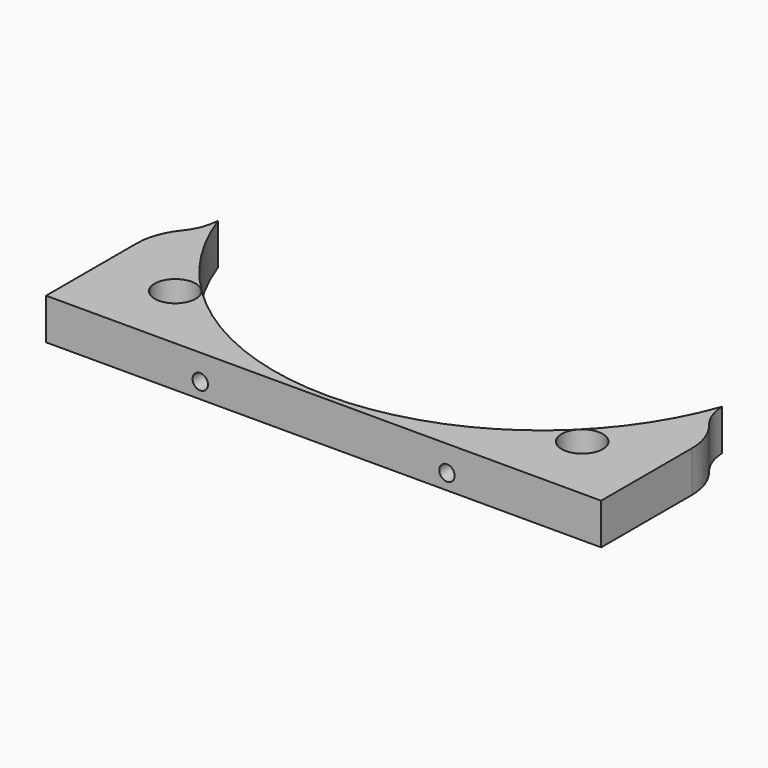
from build123d import *

# Parameters (mm, degrees)
CYLINDER883_R               = 1.5
CYLINDER883_DEPTH           = 20
CYLINDER884_R               = 1.5
CYLINDER884_DEPTH           = 20
CYLINDER881_R               = 1.5
CYLINDER881_DEPTH           = 20
CYLINDER885_R               = 1.5
CYLINDER885_DEPTH           = 20
BOX399_W                    = 6
BOX399_H                    = 2
BOX399_DEPTH                = 6
BOX401_W                    = 6
BOX401_H                    = 2
BOX401_DEPTH                = 6
BOX398_W                    = 6
BOX398_H                    = 2
BOX398_DEPTH                = 6
BOX402_W                    = 6
BOX402_H                    = 2
BOX402_DEPTH                = 6
CYLINDER882_R               = 4
CYLINDER882_DEPTH           = 20
CYLINDER882_PLACEMENT_ANGLE = 45
CYLINDER877_R               = 4
CYLINDER877_DEPTH           = 20
CYLINDER877_PLACEMENT_ANGLE = 45
CYLINDER880_R               = 10
CYLINDER880_DEPTH           = 40
CYLINDER878_R               = 10
CYLINDER878_DEPTH           = 40
CYLINDER879_R               = 52
CYLINDER879_DEPTH           = 8
BOX403_W                    = 108
BOX403_H                    = 36
BOX403_DEPTH                = 8
FILLET014_R                 = 12


with BuildPart() as obj1:
    # Cylinder883 → Cylinder883 (new body)
    with BuildSketch(Plane(origin=(24, -40, -5), x_dir=(1, 0, 0), z_dir=(0, -1, 0))):
        Circle(CYLINDER883_R)
    extrude(amount=CYLINDER883_DEPTH)


with BuildPart() as obj2:
    # Cylinder884 → Cylinder884 (new body)
    with BuildSketch(Plane(origin=(51, -40, 7), x_dir=(1, 0, 0), z_dir=(0, -1, 0))):
        Circle(CYLINDER884_R)
    extrude(amount=CYLINDER884_DEPTH)


with BuildPart() as obj3:
    # Cylinder881 → Cylinder881 (new body)
    with BuildSketch(Plane(origin=(-51, -40, 7), x_dir=(1, 0, 0), z_dir=(0, -1, 0))):
        Circle(CYLINDER881_R)
    extrude(amount=CYLINDER881_DEPTH)


with BuildPart() as compound773:
    # Cylinder885 → Cylinder885 (new body)
    with BuildSketch(Plane(origin=(-24, -40, -5), x_dir=(1, 0, 0), z_dir=(0, -1, 0))):
        Circle(CYLINDER885_R)
    extrude(amount=CYLINDER885_DEPTH)

    # Compound773: union obj1, obj2, obj3
    add(obj1.part)
    add(obj2.part)
    add(obj3.part)


with BuildPart() as krychle399:
    # Box399 → Box399 (new body)
    with BuildSketch(Plane(origin=(21, -47, -8), x_dir=(1, 0, 0), z_dir=(0, 0, 1))):
        with Locations((3, 1)):
            Rectangle(BOX399_W, BOX399_H)
    extrude(amount=BOX399_DEPTH)


with BuildPart() as krychle401:
    # Box401 → Box401 (new body)
    with BuildSketch(Plane(origin=(48, -45, 4), x_dir=(1, 0, 0), z_dir=(0, 0, 1))):
        with Locations((3, 1)):
            Rectangle(BOX401_W, BOX401_H)
    extrude(amount=BOX401_DEPTH)


with BuildPart() as krychle398:
    # Box398 → Box398 (new body)
    with BuildSketch(Plane(origin=(-54, -45, 4), x_dir=(1, 0, 0), z_dir=(0, 0, 1))):
        with Locations((3, 1)):
            Rectangle(BOX398_W, BOX398_H)
    extrude(amount=BOX398_DEPTH)


with BuildPart() as compound772:
    # Box402 → Box402 (new body)
    with BuildSketch(Plane(origin=(-27, -47, -8), x_dir=(1, 0, 0), z_dir=(0, 0, 1))):
        with Locations((3, 1)):
            Rectangle(BOX402_W, BOX402_H)
    extrude(amount=BOX402_DEPTH)

    # Compound772: union Krychle399, Krychle401, Krychle398
    add(krychle399.part)
    add(krychle401.part)
    add(krychle398.part)


with BuildPart() as obj4:
    # Cylinder882 → Cylinder882 (new body)
    with BuildSketch(Plane.XY):
        Circle(CYLINDER882_R)
    extrude(amount=CYLINDER882_DEPTH)


with BuildPart() as obj4_1:
    # Cylinder882 placement: moved
    add(obj4.part.moved(Location((39.6, -39.6, -10))).rotate(Axis((39.6, -39.6, -10), (0, 0, 1)), CYLINDER882_PLACEMENT_ANGLE))


with BuildPart() as compound775:
    # Cylinder877 → Cylinder877 (new body)
    with BuildSketch(Plane.XY):
        Circle(CYLINDER877_R)
    extrude(amount=CYLINDER877_DEPTH)


with BuildPart() as compound775_1:
    # Cylinder877 placement: moved
    add(compound775.part.moved(Location((-39.6, -39.6, -10))).rotate(Axis((-39.6, -39.6, -10), (0, 0, -1)), CYLINDER877_PLACEMENT_ANGLE))

    # Compound775: union obj4
    add(obj4_1.part)


with BuildPart() as obj5:
    # Cylinder880 → Cylinder880 (new body)
    with BuildSketch(Plane(origin=(-59, -17, 0), x_dir=(1, 0, 0), z_dir=(0, 0, 1))):
        Circle(CYLINDER880_R)
    extrude(amount=CYLINDER880_DEPTH)


with BuildPart() as compound774:
    # Cylinder878 → Cylinder878 (new body)
    with BuildSketch(Plane(origin=(59, -17, 0), x_dir=(1, 0, 0), z_dir=(0, 0, 1))):
        Circle(CYLINDER878_R)
    extrude(amount=CYLINDER878_DEPTH)

    # Compound774: union obj5
    add(obj5.part)


with BuildPart() as obj6:
    # Cylinder879 → Cylinder879 (new body)
    with BuildSketch(Plane.XY.offset(20)):
        Circle(CYLINDER879_R)
    extrude(amount=CYLINDER879_DEPTH)


with BuildPart() as fillet014:
    # Box403 → Box403 (new body)
    with BuildSketch(Plane(origin=(-54, -53, 20), x_dir=(1, 0, 0), z_dir=(0, 0, 1))):
        with Locations((54, 18)):
            Rectangle(BOX403_W, BOX403_H)
    extrude(amount=BOX403_DEPTH)

    # Cut400: cut obj6
    add(obj6.part, mode=Mode.SUBTRACT)


with BuildPart() as fillet014_1:
    # Cut400 placement: moved
    add(fillet014.part.moved(Location((0, 0, -20))))

    # Cut403: cut Compound774
    add(compound774.part, mode=Mode.SUBTRACT)


with BuildPart() as fillet014_2:
    # Cut403 placement: moved
    add(fillet014_1.part.moved(Location((0, 0, -8))))

    # Cut401: cut Compound775
    add(compound775_1.part, mode=Mode.SUBTRACT)

    # Cut402: cut Compound772
    add(compound772.part, mode=Mode.SUBTRACT)

    # Cut399: cut Compound773
    add(compound773.part, mode=Mode.SUBTRACT)

    # Fillet014
    fillet014_edges = [fillet014_2.edges().sort_by_distance(p)[0] for p in [
        (-54, -25.660254, -4),
        (54, -25.660254, -4),
    ]]
    fillet(fillet014_edges, radius=FILLET014_R)


solid = fillet014_2.part
